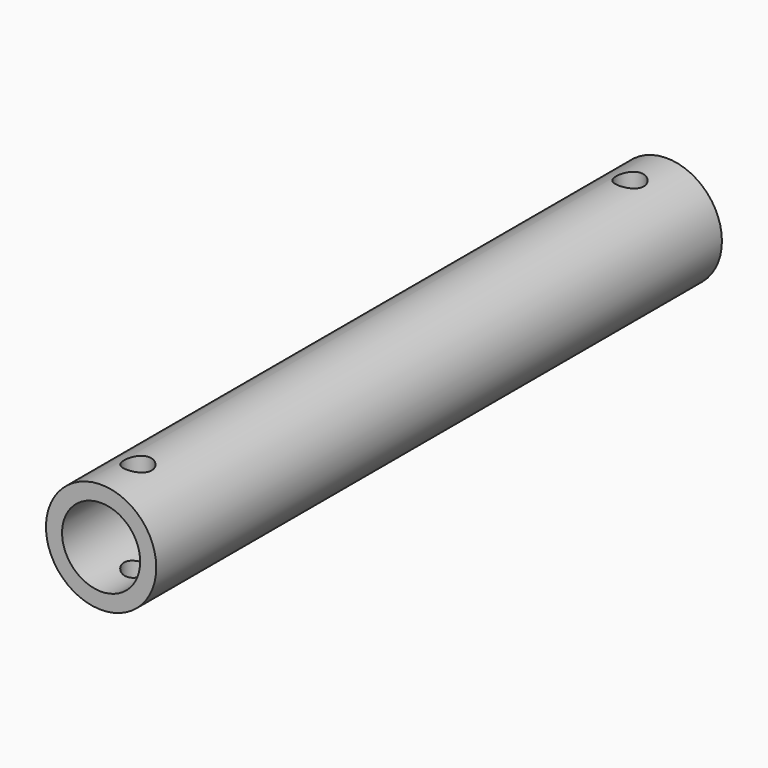
from build123d import *

# Parameters (mm, degrees)
F0_R          = 12
F1_DEPTH      = 153.889
F2_R          = 8.50015
F3_DEPTH      = 25
F4_R          = 6.34015
F5_DEPTH      = 31
F6_R          = 3
F7_DEPTH      = 25
F7_DEPTH_BACK = 25


with BuildPart() as f1:
    # F0 (on Front) → F1 (new body)
    with BuildSketch(Plane.XZ):
        Circle(F0_R)
    extrude(amount=F1_DEPTH)

    # F2 (on face) → F3 (cut)
    with BuildSketch(Plane.XZ.offset(153.889)):
        Circle(F2_R)
    extrude(amount=-F3_DEPTH, mode=Mode.SUBTRACT)

    # F4 (on face) → F5 (cut)
    with BuildSketch(Plane(origin=(0, 0, 0), x_dir=(-1, 0, 0), z_dir=(0, 1, 0))):
        Circle(F4_R)
    extrude(amount=-F5_DEPTH, mode=Mode.SUBTRACT)

    # F6 (on Top) → F7 (cut, two sides)
    with BuildSketch(Plane.XY) as f7_sk:
        with Locations((0, -10)):
            Circle(F6_R)
        with Locations((0, -143.889)):
            Circle(F6_R)
    extrude(amount=-F7_DEPTH, mode=Mode.SUBTRACT)
    extrude(f7_sk.sketch, amount=F7_DEPTH_BACK, mode=Mode.SUBTRACT)


solid = f1.part
